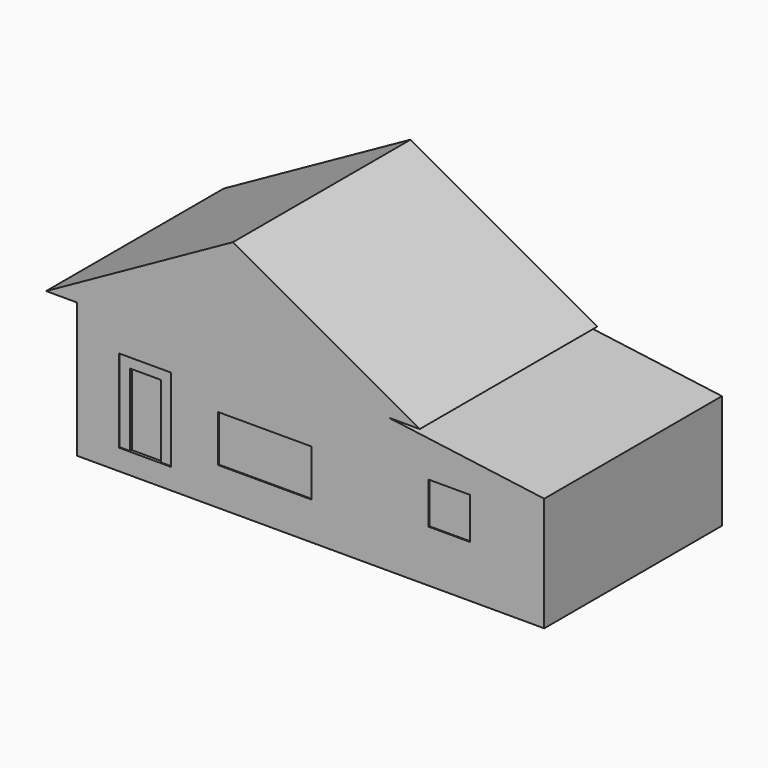
from build123d import *

# Parameters (mm, degrees)
F0_W     = 4572
F0_H     = 609.6
F0_W_2   = 2743.2
F0_H_2   = 1371.6
F0_W_3   = 1219.2
F0_H_3   = 1219.2
F1_DEPTH = 6522.72
F0_W_4   = 914.4
F0_H_4   = 2133.6
F2_DEPTH = 6431.28
F3_DEPTH = 6492.24
F4_DEPTH = 6492.24
F5_DEPTH = 6492.24


with BuildPart() as f1:
    # F0 (on Front) → F1 (new body)
    with BuildSketch(Plane.XZ):
        Polygon((-24792.3976912726, -7645.2114713722), (-24792.3976912726, -8254.8114713722), (-15648.3976912726, -8254.8114713722), (-15648.3976912726, -7645.2114713722), (-22044.0248364636, -7645.2114713722), (-22348.8248364636, -7645.2114713722), (-23263.2248364636, -7645.2114713722), (-23568.0248364636, -7645.2114713722), align=None)
        with Locations((-13362.3976912726, -7950.0114713722)):
            Rectangle(F0_W, F0_H)
        Polygon((-24792.3976912726, -4292.4114713722), (-24792.3976912726, -7645.2114713722), (-23568.0248364636, -7645.2114713722), (-23568.0248364636, -5206.8114713722), (-23263.2248364636, -5206.8114713722), (-22044.0248364636, -5206.8114713722), (-22044.0248364636, -5511.6114713722), (-22044.0248364636, -7645.2114713722), (-15648.3976912726, -7645.2114713722), (-15648.3976912726, -4902.0114713722), (-15648.3976912726, -4292.4114713722), (-20220.3976912726, -4292.4114713722), align=None)
        with Locations((-19283.1299586484, -6461.8551946693)):
            Rectangle(F0_W_2, F0_H_2, mode=Mode.SUBTRACT)
        Polygon((-15648.3976912726, -4902.0114713722), (-15648.3976912726, -7645.2114713722), (-11076.3976912726, -7645.2114713722), (-11076.3976912726, -5601.1905130439), align=None)
        with Locations((-13865.1114181519, -6121.2114713722)):
            Rectangle(F0_W_3, F0_H_3, mode=Mode.SUBTRACT)
        Polygon((-20220.3976912726, -2006.4114713722), (-24792.3976912726, -4292.4114713722), (-20220.3976912726, -4292.4114713722), align=None)
        Polygon((-25706.7976912726, -4292.4114713722), (-24792.3976912726, -4292.4114713722), (-20220.3976912726, -2006.4114713722), (-20220.3976912726, -1244.4114713722), align=None)
        Polygon((-15648.3976912726, -4292.4114713722), (-15648.3976912726, -4902.0114713722), (-11076.3976912726, -5601.1905130439), (-11076.3976912726, -4902.0114713722), align=None)
        Polygon((-20220.3976912726, -2006.4114713722), (-20220.3976912726, -4292.4114713722), (-15648.3976912726, -4292.4114713722), align=None)
        Polygon((-20220.3976912726, -1244.4114713722), (-20220.3976912726, -2006.4114713722), (-15648.3976912726, -4292.4114713722), (-14733.9976912726, -4292.4114713722), align=None)
    extrude(amount=F1_DEPTH)

    # F0 (on Front) → F2 (join)
    with BuildSketch(Plane.XZ):
        with Locations((-22806.0248364636, -6578.4114713722)):
            Rectangle(F0_W_4, F0_H_4)
    extrude(amount=F2_DEPTH)

    # F0 (on Front) → F3 (join)
    with BuildSketch(Plane.XZ):
        Polygon((-23568.0248364636, -5206.8114713722), (-23568.0248364636, -7645.2114713722), (-23263.2248364636, -7645.2114713722), (-23263.2248364636, -5511.6114713722), (-22348.8248364636, -5511.6114713722), (-22348.8248364636, -7645.2114713722), (-22044.0248364636, -7645.2114713722), (-22044.0248364636, -5511.6114713722), (-22044.0248364636, -5206.8114713722), (-23263.2248364636, -5206.8114713722), align=None)
    extrude(amount=F3_DEPTH)

    # F0 (on Front) → F4 (join)
    with BuildSketch(Plane.XZ):
        with Locations((-19283.1299586484, -6461.8551946693)):
            Rectangle(F0_W_2, F0_H_2)
    extrude(amount=F4_DEPTH)

    # F0 (on Front) → F5 (join)
    with BuildSketch(Plane.XZ):
        with Locations((-13865.1114181519, -6121.2114713722)):
            Rectangle(F0_W_3, F0_H_3)
    extrude(amount=F5_DEPTH)


solid = f1.part
